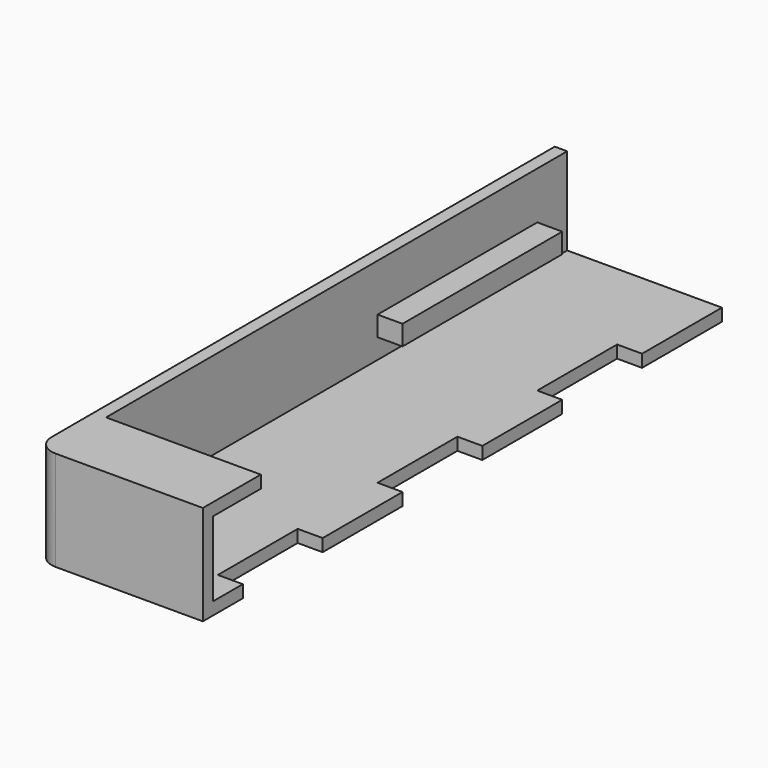
from build123d import *

# Parameters (mm, degrees)
F0_W     = 42.545
F0_H     = 165.1
F1_DEPTH = 25.4
F2_W     = 39.37
F2_H     = 161.925
F3_DEPTH = 22.225
F4_W     = 39.37
F4_H     = 15.24
F5_DEPTH = 3.175
F6_W     = 50.8
F6_H     = 5.08
F7_DEPTH = 6.35
F8_W     = 6.35
F8_H     = 25.4
F9_DEPTH = 3.176
F10_R    = 5.08


with BuildPart() as f1:
    # F0 (on Top) → F1 (new body)
    with BuildSketch(Plane.XY):
        with Locations((-43.306965, -1.745749)):
            Rectangle(F0_W, F0_H)
    extrude(amount=F1_DEPTH)

    # F2 (on face) → F3 (cut)
    with BuildSketch(Plane.XY.offset(25.4)):
        with Locations((-41.719465, -0.158249)):
            Rectangle(F2_W, F2_H)
    extrude(amount=-F3_DEPTH, mode=Mode.SUBTRACT)

    # F4 (on face) → F5 (join)
    with BuildSketch(Plane.XY.offset(25.4)):
        with Locations((-41.719465, -73.500749)):
            Rectangle(F4_W, F4_H)
    extrude(amount=-F5_DEPTH)

    # F6 (on face) → F7 (join)
    with BuildSketch(Plane.YZ.offset(-61.404465)):
        with Locations((45.879251, 10.795)):
            Rectangle(F6_W, F6_H)
    extrude(amount=F7_DEPTH)

    # F8 (on face) → F9 (cut, through all)
    with BuildSketch(Plane.XY.offset(3.175)):
        with Locations((-25.209465, -58.895749)):
            Rectangle(F8_W, F8_H)
        with Locations((-25.209465, -8.095749)):
            Rectangle(F8_W, F8_H)
        with Locations((-25.209465, 42.704251)):
            Rectangle(F8_W, F8_H)
    extrude(amount=-F9_DEPTH, mode=Mode.SUBTRACT)

    # F10
    f10_edges = [f1.edges().sort_by_distance(p)[0] for p in [
        (-64.579465, -84.295749, 12.7),
    ]]
    fillet(f10_edges, radius=F10_R)


solid = f1.part
